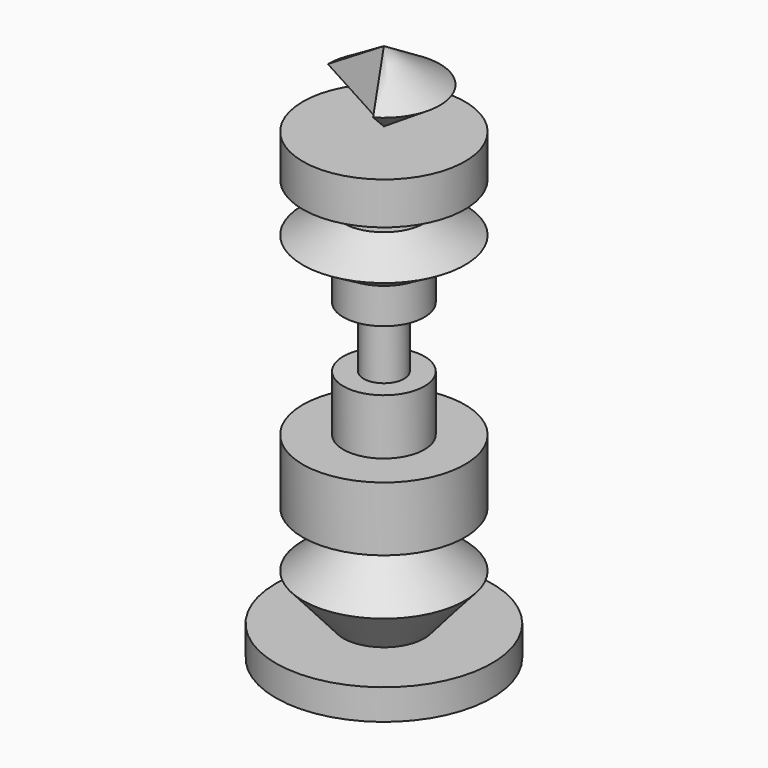
from build123d import *

# Parameters (mm, degrees)
F3_ANGLE = 240


with BuildPart() as f1:
    # F0 (on Front) → F1 (revolve)
    with BuildSketch(Plane.XZ):
        Polygon((0, 0), (0, 69.833852), (-12.211382, 69.833852), (-12.211382, 63.473754), (-3.052845, 63.473754), (-3.052845, 59.657697), (-6.105691, 59.657697), (-12.211382, 56.09604), (-6.105691, 52.53439), (-6.105691, 47.191907), (-3.052845, 47.191907), (-3.052845, 38.03337), (-6.105691, 38.03337), (-6.105691, 29.638045), (-12.211382, 29.638045), (-12.211382, 19.9707), (-6.105691, 19.9707), (-6.105691, 16.917855), (-12.211382, 11.575374), (-6.105691, 4.597442), (-16.281845, 4.597442), (-16.281845, 0), align=None)
    revolve(axis=Axis((0, 0, 34.916926), (0, 0, 1)))


with BuildPart() as f3:
    # F2 (on Front) → F3 (revolve)
    with BuildSketch(Plane.XZ):
        Polygon((-8.436989, 76.051608), (0, 70.520461), (0, 81.173047), align=None)
    revolve(axis=Axis((0, 0, 75.846754), (0, 0, -1)), revolution_arc=F3_ANGLE)


solid = Compound([f1.part, f3.part])
